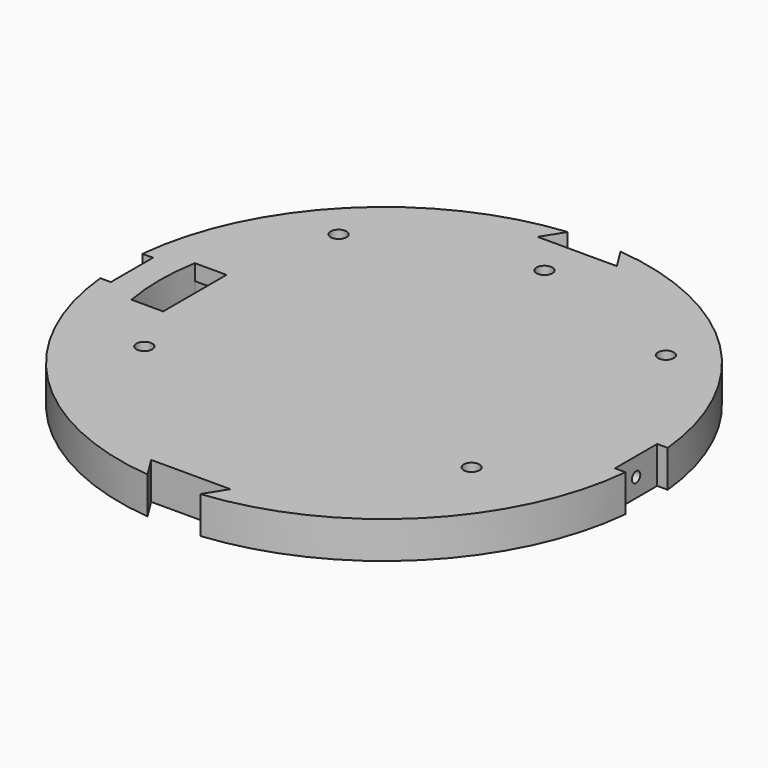
from build123d import *

# Parameters (mm, degrees)
F0_R      = 1.5
F1_DEPTH  = 7
F3_DEPTH  = 4
F5_D      = 2
F5_DEPTH  = 4
F5_TIP    = 0.600860619
F7_D      = 2
F7_DEPTH  = 4
F7_TIP    = 0.600860619
F9_DEPTH  = 4
F10_D     = 3
F10_DEPTH = 4
F10_TIP   = 0.9012909285


with BuildPart() as f1:
    # F0 (on Top) → F1 (new body)
    with BuildSketch(Plane.XY):
        with BuildLine():
            ThreePointArc((-5, 49.7493718553), (-35.3553390204, 35.3553390982), (-49.7493718443, 5.0000001095))
            Line((-49.7493718443, 5.0000001095), (-47.7493718443, 5.0000001095))
            Line((-47.7493718443, 5.0000001095), (-47.7493718443, -4.9999998882))
            Line((-47.7493718443, -4.9999998882), (-49.7493718666, -4.9999998882))
            ThreePointArc((-49.7493718666, -4.9999998882), (-35.3553390593, -35.3553390593), (-4.9999998882, -49.7493718666))
            Line((-4.9999998882, -49.7493718666), (-7.4999998882, -45.7493718443))
            Line((-7.4999998882, -45.7493718443), (7.5000001118, -45.7493718443))
            Line((7.5000001118, -45.7493718443), (5.0000001095, -49.7493718443))
            ThreePointArc((5.0000001095, -49.7493718443), (35.355339138, -35.3553389807), (49.7493718666, -4.9999998882))
            Line((49.7493718666, -4.9999998882), (47.7493718666, -4.9999998882))
            Line((47.7493718666, -4.9999998882), (47.7493718443, 5.0000001095))
            Line((47.7493718443, 5.0000001095), (49.7493718443, 5.0000001095))
            ThreePointArc((49.7493718443, 5.0000001095), (35.3553390204, 35.3553390982), (5, 49.7493718553))
            Line((5, 49.7493718553), (7.5, 45.7493718553))
            Line((7.5, 45.7493718553), (-7.5, 45.7493718553))
            Line((-7.5, 45.7493718553), (-5, 49.7493718553))
        make_face()
        with Locations((-30.99729, -18)):
            Circle(F0_R, mode=Mode.SUBTRACT)
        with Locations((30.99729, -18)):
            Circle(F0_R, mode=Mode.SUBTRACT)
        with BuildLine():
            ThreePointArc((-41.8330013267, -7.5), (-42.5, 0), (-41.8330013267, 7.5))
            Line((-41.8330013267, 7.5), (-35.8330013267, 7.5))
            Line((-35.8330013267, 7.5), (-35.8330013267, -7.5))
            Line((-35.8330013267, -7.5), (-41.8330013267, -7.5))
        make_face(mode=Mode.SUBTRACT)
        with Locations((-30.99729, 27.99879)):
            Circle(F0_R, mode=Mode.SUBTRACT)
        with Locations((0, 38)):
            Circle(F0_R, mode=Mode.SUBTRACT)
        with Locations((30.99729, 27.99879)):
            Circle(F0_R, mode=Mode.SUBTRACT)
    extrude(amount=F1_DEPTH)

    # F2 (on face) → F3 (cut)
    with BuildSketch(Plane(origin=(0, 0, 0), x_dir=(1, 0, 0), z_dir=(0, 0, -1))):
        with BuildLine():
            Line((-33.2126875853, 11.7240947344), (-40.0763431849, 14.1469684711))
            ThreePointArc((-40.0763431849, 14.1469684711), (-42.1991788884, -5.0477025611), (-35.6090242019, -23.2001593829))
            ThreePointArc((-35.6090242019, -23.2001593829), (-26.0583647767, -23.5376280677), (-26.6909660756, -33.0732872565))
            ThreePointArc((-26.6909660756, -33.0732872565), (-16.571886566, -39.1359499136), (-5.1761259013, -42.1836191033))
            ThreePointArc((-5.1761259013, -42.1836191033), (0, -31.344555), (5.1761259013, -42.1836191033))
            ThreePointArc((5.1761259013, -42.1836191033), (16.571886566, -39.1359499136), (26.6909660756, -33.0732872565))
            ThreePointArc((26.6909660756, -33.0732872565), (26.0583647767, -23.5376280677), (35.6090242019, -23.2001593829))
            ThreePointArc((35.6090242019, -23.2001593829), (42.1991788884, -5.0477025611), (40.0763431849, 14.1469684711))
            Line((40.0763431849, 14.1469684711), (33.2126875853, 11.7240947344))
            ThreePointArc((33.2126875853, 11.7240947344), (25.241859967, 14.6578452312), (26.6446104223, 23.0347943213))
            Line((26.6446104223, 23.0347943213), (32.150922703, 27.7951105295))
            ThreePointArc((32.150922703, 27.7951105295), (0, 42.5), (-32.150922703, 27.7951105295))
            Line((-32.150922703, 27.7951105295), (-26.6446104223, 23.0347943213))
            ThreePointArc((-26.6446104223, 23.0347943213), (-25.241859967, 14.6578452312), (-33.2126875853, 11.7240947344))
        make_face()
    extrude(amount=-F3_DEPTH, mode=Mode.SUBTRACT)

    # F5
    with Locations(Plane(origin=(-47.7493718443, 0, 0), x_dir=(0, -1, 0), z_dir=(-1, 0, 0))):
        with Locations((-1.106e-07, 3.5)):
            Hole(F5_D / 2, depth=F5_DEPTH)
            with Locations((0, 0, -(F5_DEPTH + F5_TIP / 2))):  # 118° drill point
                Cone(0, F5_D / 2, F5_TIP, mode=Mode.SUBTRACT)

    # F7
    with Locations(Plane(origin=(47.7493718554, 1.062e-07, 0), x_dir=(-2.2e-09, 1, 0), z_dir=(1, 2.2e-09, 0))):
        with Locations((4.4e-09, 3.5)):
            Hole(F7_D / 2, depth=F7_DEPTH)
            with Locations((0, 0, -(F7_DEPTH + F7_TIP / 2))):  # 118° drill point
                Cone(0, F7_D / 2, F7_TIP, mode=Mode.SUBTRACT)

    # F8 (on Top) → F9 (join)
    with BuildSketch(Plane.XY):
        with BuildLine():
            Line((-4.9882119756, 9.0746689573), (-4.9882119756, -9.0608097649))
            ThreePointArc((-4.9882119756, -9.0608097649), (0.0117880244, -14.0608097649), (5.0117880244, -9.0608097649))
            Line((5.0117880244, -9.0608097649), (5.0117880244, 9.0746689573))
            ThreePointArc((5.0117880244, 9.0746689573), (0.0117880244, 14.0746689573), (-4.9882119756, 9.0746689573))
        make_face()
    extrude(amount=F9_DEPTH)

    # F10
    with Locations(Plane(origin=(0, 0, 0), x_dir=(1, 0, 0), z_dir=(0, 0, -1))):
        with Locations((0.0117880244, 9.0608097649), (0.0117880244, -9.0746689573)):
            Hole(F10_D / 2, depth=F10_DEPTH)
            with Locations((0, 0, -(F10_DEPTH + F10_TIP / 2))):  # 118° drill point
                Cone(0, F10_D / 2, F10_TIP, mode=Mode.SUBTRACT)


solid = f1.part
